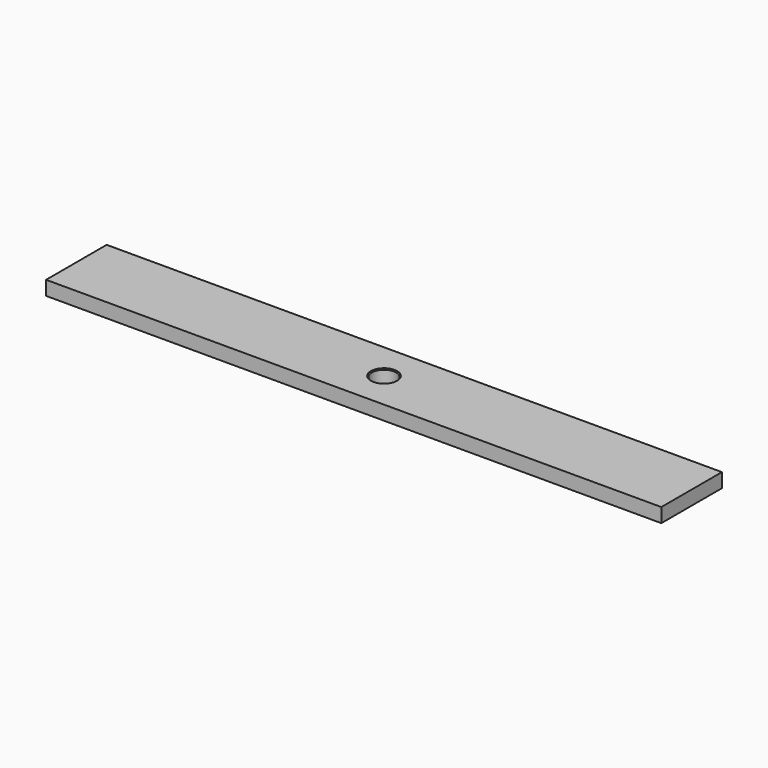
from build123d import *

# Parameters (mm, degrees)
F0_W     = 130
F0_H     = 16
F1_DEPTH = 3
F2_R     = 2.575
F3_DEPTH = 3.001
F4_SIZE  = 0.2


with BuildPart() as f1:
    # F0 (on Top) → F1 (new body)
    with BuildSketch(Plane.XY):
        Rectangle(F0_W, F0_H)
    extrude(amount=F1_DEPTH)

    # F2 (on face) → F3 (cut, through all)
    with BuildSketch(Plane.XY.offset(3)):
        Circle(F2_R)
    extrude(amount=-F3_DEPTH, mode=Mode.SUBTRACT)

    # F4
    f4_edges = [f1.edges().sort_by_distance(p)[0] for p in [
        (-2.575, 0, 3),
        (-2.575, 0, 0),
    ]]
    chamfer(f4_edges, length=F4_SIZE)


solid = f1.part
